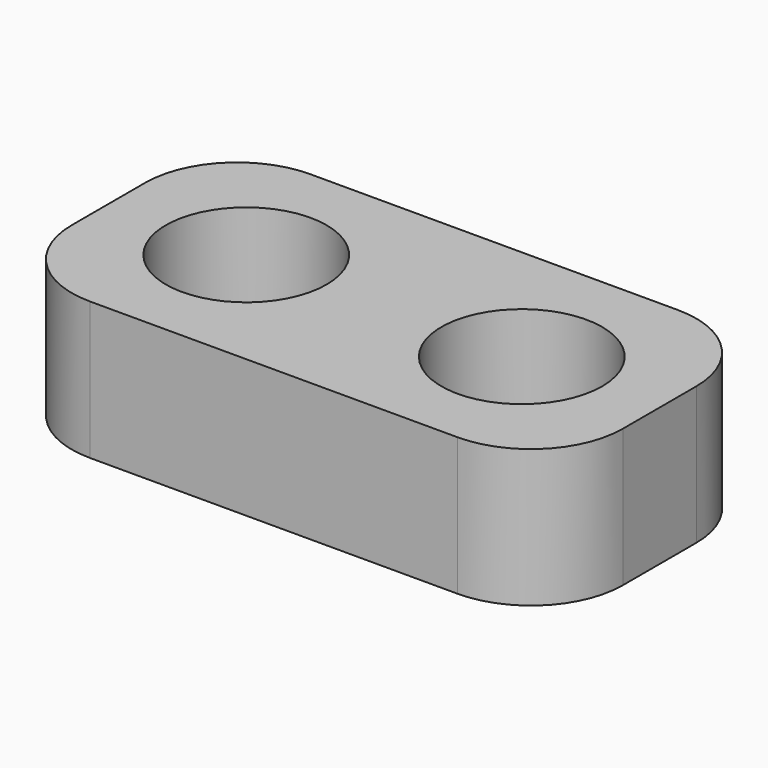
from build123d import *

# Parameters (mm, degrees)
F0_W     = 19.05
F0_H     = 9.525
F0_R     = 2.778125
F1_DEPTH = 4.7625
F2_R     = 3.175


with BuildPart() as f1:
    # F0 (on Top) → F1 (new body)
    with BuildSketch(Plane.XY):
        Rectangle(F0_W, F0_H)
        with Locations((-4.7625, 0)):
            Circle(F0_R, mode=Mode.SUBTRACT)
        with Locations((4.7625, 0)):
            Circle(F0_R, mode=Mode.SUBTRACT)
    extrude(amount=F1_DEPTH)

    # F2
    f2_edges = [f1.edges().sort_by_distance(p)[0] for p in [
        (-9.525, -4.7625, 2.38125),
        (-9.525, 4.7625, 2.38125),
        (9.525, -4.7625, 2.38125),
        (9.525, 4.7625, 2.38125),
    ]]
    fillet(f2_edges, radius=F2_R)


solid = f1.part
